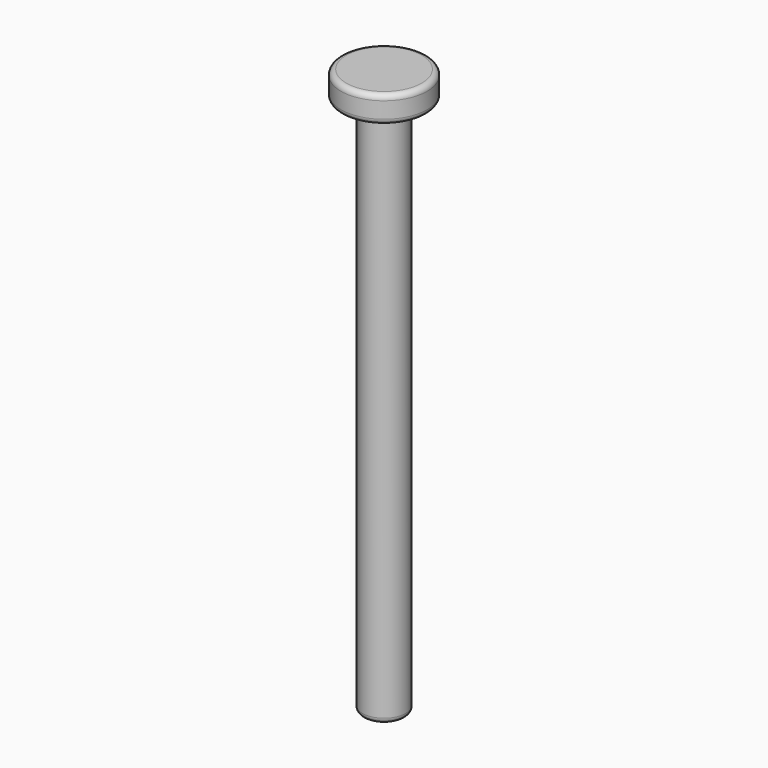
from build123d import *

# Parameters (mm, degrees)
F0_R     = 8
F1_DEPTH = 5
F2_R     = 4
F3_DEPTH = 99.8
F4_R     = 1


with BuildPart() as f1:
    # F0 (on Top) → F1 (new body)
    with BuildSketch(Plane.XY):
        Circle(F0_R)
    extrude(amount=F1_DEPTH)

    # F2 (on face) → F3 (join)
    with BuildSketch(Plane(origin=(0, 0, 0), x_dir=(1, 0, 0), z_dir=(0, 0, -1))):
        Circle(F2_R)
        Circle(F2_R)
    extrude(amount=F3_DEPTH)

    # F4
    f4_edges = [f1.edges().sort_by_distance(p)[0] for p in [
        (-4, 0, -99.8),
        (-8, 0, 0),
        (-8, 0, 5),
    ]]
    fillet(f4_edges, radius=F4_R)


solid = f1.part
